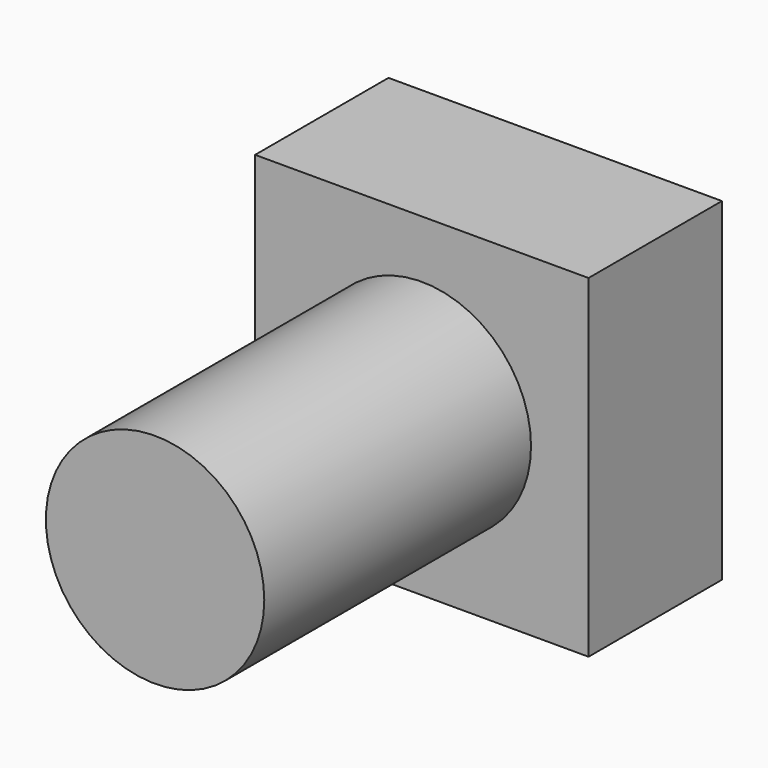
from build123d import *

# Parameters (mm, degrees)
F0_W     = 25.4
F0_H     = 25.4
F1_DEPTH = 12.7
F2_R     = 8.3183998394
F3_DEPTH = 25.4
F4_R     = 5.08
F6_D     = 2.2606
F6_DEPTH = 14.605
F6_TIP   = 0.6791527577


with BuildPart() as f1:
    # F0 (on Front) → F1 (new body)
    with BuildSketch(Plane.XZ):
        Rectangle(F0_W, F0_H)
    extrude(amount=F1_DEPTH)

    # F2 (on face) → F3 (join)
    with BuildSketch(Plane.XZ.offset(12.7)):
        Circle(F2_R)
    extrude(amount=F3_DEPTH)

    # F4
    f4_edges = [f1.edges().sort_by_distance(p)[0] for p in [
        (-12.7, -6.35, -12.7),
    ]]
    fillet(f4_edges, radius=F4_R)

    # F6
    with Locations(Plane(origin=(0, 0, 0), x_dir=(-1, 0, 0), z_dir=(0, 1, 0))):
        with Locations((0, 0)):
            Hole(F6_D / 2, depth=F6_DEPTH)
            with Locations((0, 0, -(F6_DEPTH + F6_TIP / 2))):  # 118° drill point
                Cone(0, F6_D / 2, F6_TIP, mode=Mode.SUBTRACT)


solid = f1.part
